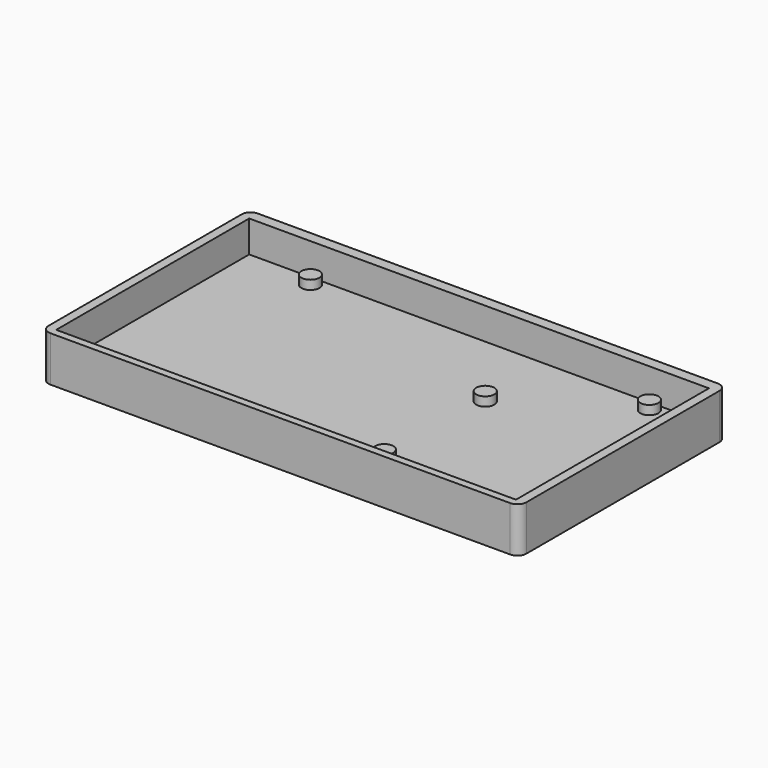
from build123d import *

# Parameters (mm, degrees)
PAD_DEPTH    = 10
SKETCH001_W  = 101.6
SKETCH001_H  = 53.3
POCKET_DEPTH = 7
SKETCH002_R  = 2
PAD001_DEPTH = 2


with BuildPart() as part:
    # Sketch → Pad (new body)
    with BuildSketch(Plane.XY):
        with BuildLine():
            ThreePointArc((0, 55.3), (-1.414219, 54.714208), (-2, 53.299986))
            Line((-2, 0), (-2, 53.299986))
            ThreePointArc((-2, 0), (-1.414214, -1.414214), (0, -2))
            Line((101.6, -2), (0, -2))
            ThreePointArc((101.6, -2), (103.014214, -1.414214), (103.6, 0))
            Line((103.6, 53.3), (103.6, 0))
            ThreePointArc((103.6, 53.3), (103.014214, 54.714214), (101.6, 55.3))
            Line((0, 55.3), (101.6, 55.3))
        make_face()
    extrude(amount=PAD_DEPTH)

    # Sketch001 → Pocket (cut)
    with BuildSketch(Plane.XY.offset(10)):
        with Locations((50.786842, 26.274506)):
            Rectangle(SKETCH001_W, SKETCH001_H)
    extrude(amount=-POCKET_DEPTH, mode=Mode.SUBTRACT)

    # Sketch002 → Pad001 (new body)
    with BuildSketch(Plane.XY.offset(3)):
        with Locations((15.3, 50.7)):
            Circle(SKETCH002_R)
        with Locations((14, 2.5)):
            Circle(SKETCH002_R)
        with Locations((66.1, 35.5)):
            Circle(SKETCH002_R)
        with Locations((66.1, 7.6)):
            Circle(SKETCH002_R)
        with Locations((90.2, 50.7)):
            Circle(SKETCH002_R)
        with Locations((95.2, 2.5)):
            Circle(SKETCH002_R)
    extrude(amount=PAD001_DEPTH)


solid = part.part
